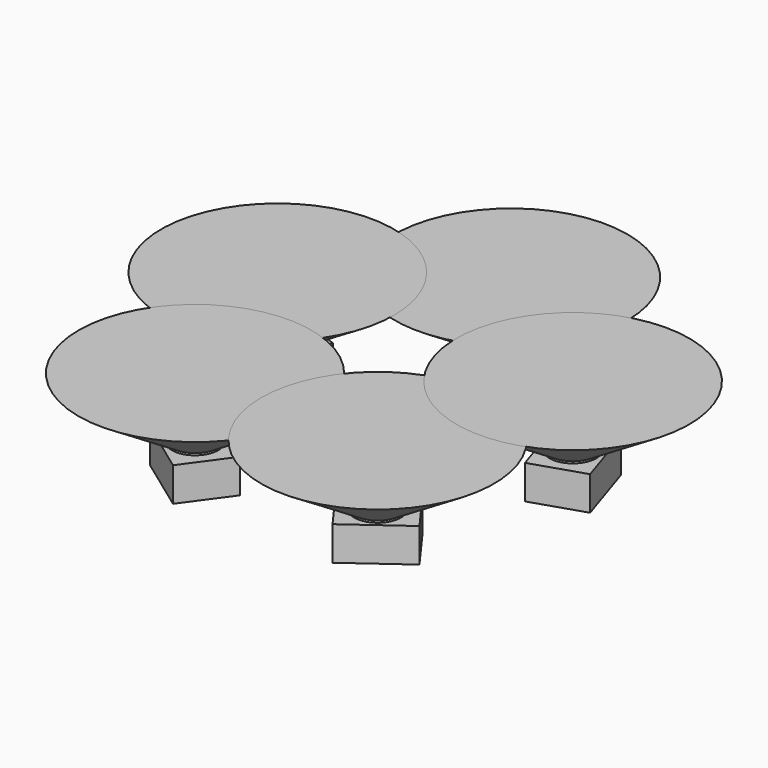
from build123d import *

# Parameters (mm, degrees)
SKETCH_W     = 3.5
SKETCH_H     = 2.8
PAD_DEPTH    = 1.75
SKETCH002_R  = 1.2
PAD002_DEPTH = 0.1
SKETCH005_R  = 1.2
SKETCH004_R  = 6
ARRAY_COUNT  = 5


with BuildPart() as array:
    # Sketch → Pad (new body)
    with BuildSketch(Plane.XY):
        with Locations((0, 8)):
            Rectangle(SKETCH_W, SKETCH_H)
    extrude(amount=PAD_DEPTH)

    # Sketch002 (on Face6 of Pad) → Pad002 (join)
    with BuildSketch(Plane.XY.offset(1.75)):
        with Locations((0, 8)):
            Circle(SKETCH002_R)
    extrude(amount=PAD002_DEPTH)

    # Sketch005 (on Face8 of Pad002) → AdditiveLoft section 0
    with BuildSketch(Plane.XY.offset(1.85)):
        with Locations((0, 8)):
            Circle(SKETCH005_R)
    # Sketch004 (on Face8 of Pad002) → AdditiveLoft section 1
    with BuildSketch(Plane.XY.offset(4.85)):
        with Locations((0, 8)):
            Circle(SKETCH004_R)
    loft()


with BuildPart() as array_copy1:
    # Array: instance of Array
    add(array.part.rotate(Axis((0, 0, 0), (0, 0, 1)), 1 * 360 / ARRAY_COUNT))


with BuildPart() as array_copy2:
    # Array: instance of Array
    add(array.part.rotate(Axis((0, 0, 0), (0, 0, 1)), 2 * 360 / ARRAY_COUNT))


with BuildPart() as array_copy3:
    # Array: instance of Array
    add(array.part.rotate(Axis((0, 0, 0), (0, 0, 1)), 3 * 360 / ARRAY_COUNT))


with BuildPart() as array_copy4:
    # Array: instance of Array
    add(array.part.rotate(Axis((0, 0, 0), (0, 0, 1)), 4 * 360 / ARRAY_COUNT))


solid = Compound([array.part, array_copy1.part, array_copy2.part, array_copy3.part, array_copy4.part])
